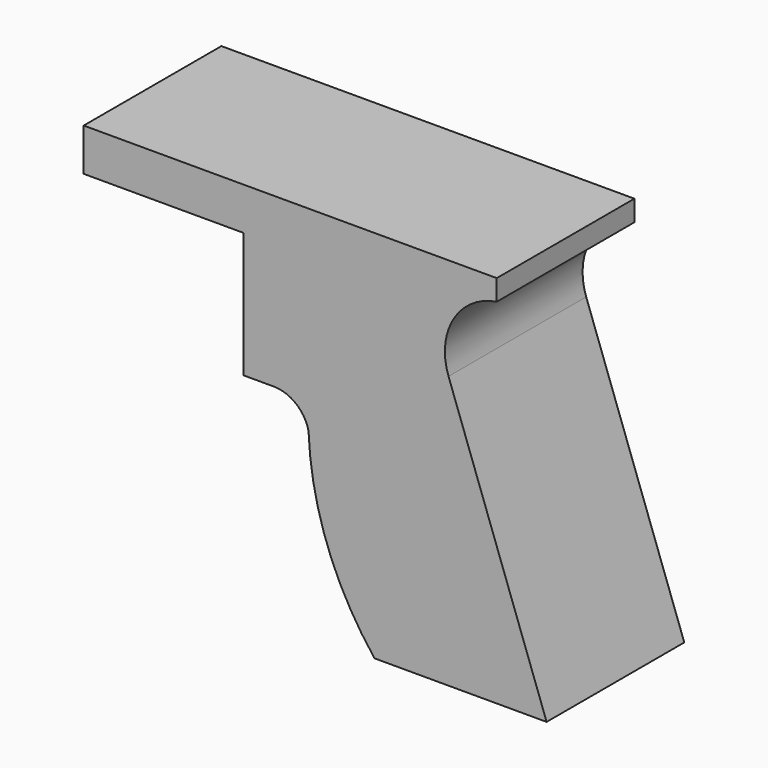
from build123d import *

# Parameters (mm, degrees)
F1_DEPTH = 15.24


with BuildPart() as f1:
    # F0 (on Front) → F1 (new body, symmetric)
    with BuildSketch(Plane.XZ):
        with BuildLine():
            ThreePointArc((39.819952, -34.683209), (43.15441, -51.434249), (51.5128, -66.328987))
            Line((51.5128, -66.328987), (81.9928, -66.328987))
            Line((81.9928, -66.328987), (64.616776, -18.092548))
            ThreePointArc((64.616776, -18.092548), (65.491758, -8.876663), (73.156603, -3.68549))
            Line((73.156603, -3.68549), (73.156603, 0))
            Line((73.156603, 0), (0, 0))
            Line((0, 0), (0, -7.535368))
            Line((0, -7.535368), (28.341651, -7.535368))
            Line((28.341651, -7.535368), (28.341651, -29.748611))
            Line((28.341651, -29.748611), (33.654915, -29.748611))
            ThreePointArc((33.654915, -29.748611), (37.603267, -31.134181), (39.819952, -34.683209))
        make_face()
    extrude(amount=F1_DEPTH, both=True)


solid = f1.part
